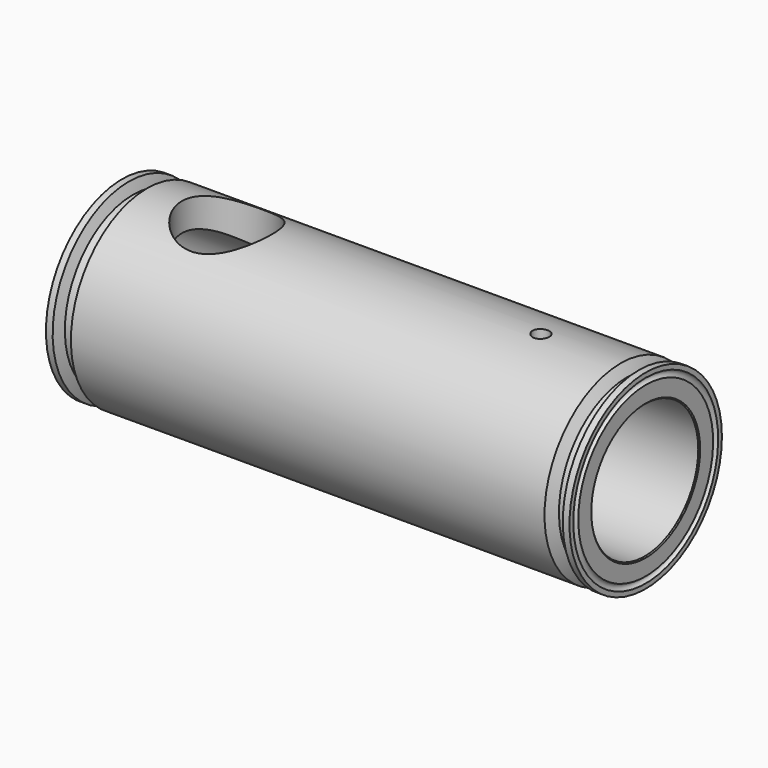
from build123d import *

# Parameters (mm, degrees)
F0_R      = 45.5
F0_R_2    = 32
F1_DEPTH  = 200
F3_R      = 45.5
F3_R_2    = 32
F4_DEPTH  = 50
F5_R      = 1.5
F7_R      = 5
F8_DEPTH  = 51.25539
F10_R     = 4
F11_DEPTH = 91.0010001
F12_SIZE  = 0.5
F13_R     = 21.5
F14_DEPTH = 50
F19_R     = 21.5
F20_DEPTH = 67


with BuildPart() as f1:
    # F0 (on Right) → F1 (new body)
    with BuildSketch(Plane.YZ):
        Circle(F0_R)
        Circle(F0_R_2, mode=Mode.SUBTRACT)
    extrude(amount=F1_DEPTH)

    # F3 (on Right) → F4 (join)
    with BuildSketch(Plane.YZ):
        Circle(F3_R)
        Circle(F3_R_2, mode=Mode.SUBTRACT)
    extrude(amount=-F4_DEPTH)

    # F5 (on Front) → F6 (revolve, cut)
    with BuildSketch(Plane.XZ):
        Polygon((194.9736929554, 40.482262634), (196.8, 45.5), (188.0767009364, 45.5), (190.9736929554, 40.482262634), align=None)
        Polygon((-44.9736929554, 40.482262634), (-40.9736929554, 40.482262634), (-38.0767009364, 45.5), (-46.8, 45.5), align=None)
        with Locations((200, 41.75)):
            Circle(F5_R)
        with Locations((-50.0225760043, 41.75)):
            Circle(F5_R)
    revolve(axis=Axis((100, 0, 0), (1, 0, 0)), mode=Mode.SUBTRACT)

    # F7 (on Top) → F8 (cut)
    with BuildSketch(Plane.XY):
        with Locations((135, 0)):
            Circle(F7_R)
    extrude(amount=-F8_DEPTH, mode=Mode.SUBTRACT)

    # F10 (on offset) → F11 (cut, through all)
    with BuildSketch(Plane.XY.offset(-45.5)):
        with Locations((150, 0)):
            Circle(F10_R)
    extrude(amount=F11_DEPTH, mode=Mode.SUBTRACT)

    # F12
    f12_edges = [f1.edges().sort_by_distance(p)[0] for p in [
        (200, -32, 0),
    ]]
    chamfer(f12_edges, length=F12_SIZE)

    # F13 (on Top) → F14 (cut, symmetric)
    with BuildSketch(Plane.XY):
        Circle(F13_R)
    extrude(amount=F14_DEPTH, both=True, mode=Mode.SUBTRACT)

    # F19 (on offset) → F20 (cut)
    with BuildSketch(Plane(origin=(15, 0, -25.9807621135), x_dir=(0.8660254038, 0, 0.5), z_dir=(-0.5, 0, 0.8660254038))):
        with Locations((28, 0)):
            Circle(F19_R)
    extrude(amount=-F20_DEPTH, mode=Mode.SUBTRACT)


solid = f1.part
